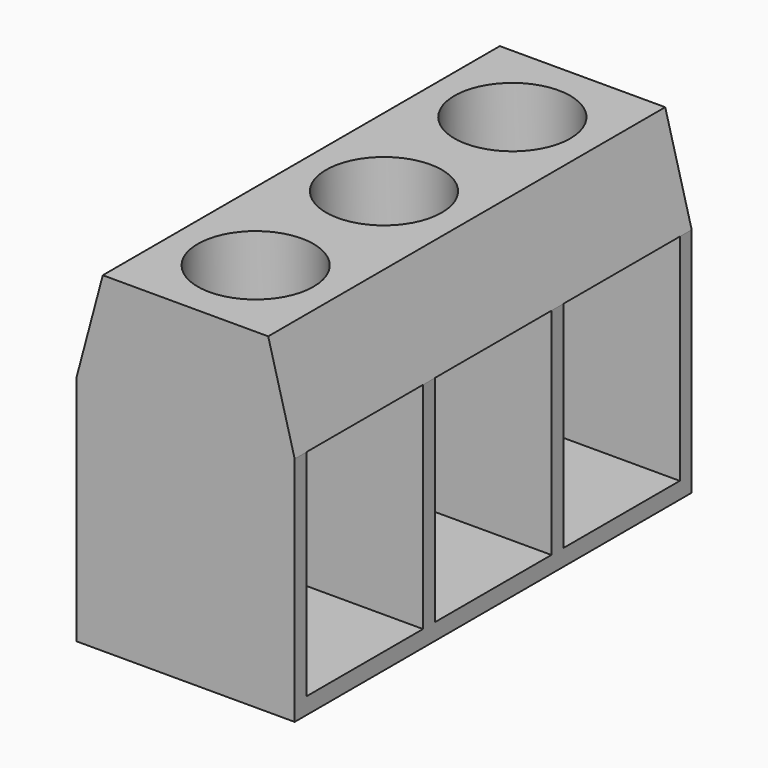
from build123d import *

# Parameters (mm, degrees)
PAD008_DEPTH    = 7.5
SKETCH012_W     = 4.4
SKETCH012_H     = 6.5
POCKET_DEPTH    = 4.401
SKETCH013_R     = 1.75
POCKET001_DEPTH = 3.001


with BuildPart() as part:
    # Sketch011 → Pad008 (new body, symmetric)
    with BuildSketch(Plane.XZ):
        Polygon((34.6, 11.6), (39.6, 11.6), (40.4, 8.6), (40.4, 1.6), (33.8, 1.6), (33.8, 8.6), align=None)
    extrude(amount=PAD008_DEPTH, both=True)

    # Sketch012 → Pocket (cut, through all)
    with BuildSketch(Plane.YZ.offset(36)):
        with Locations((-4.85, 5.35)):
            Rectangle(SKETCH012_W, SKETCH012_H)
        with Locations((0, 5.35)):
            Rectangle(SKETCH012_W, SKETCH012_H)
        with Locations((4.85, 5.35)):
            Rectangle(SKETCH012_W, SKETCH012_H)
    extrude(amount=POCKET_DEPTH, mode=Mode.SUBTRACT)

    # Sketch013 → Pocket001 (cut, through all)
    with BuildSketch(Plane.XY.offset(8.6)):
        with Locations((37.1, -4.85)):
            Circle(SKETCH013_R)
        with Locations((37.1, 4.85)):
            Circle(SKETCH013_R)
        with Locations((37.1, 0)):
            Circle(SKETCH013_R)
    extrude(amount=POCKET001_DEPTH, mode=Mode.SUBTRACT)


solid = part.part
